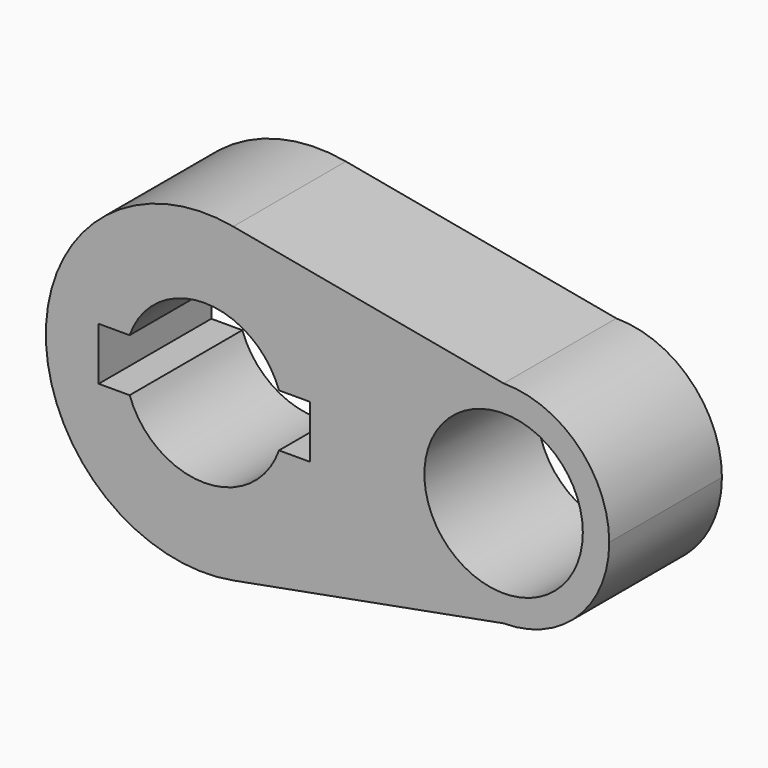
from build123d import *

# Parameters (mm, degrees)
F0_R     = 14.2875
F1_DEPTH = 25.4


with BuildPart() as f1:
    # F0 (on Front) → F1 (new body)
    with BuildSketch(Plane.XZ):
        with BuildLine():
            ThreePointArc((5.211817, -28.095686), (21.971098, -18.270235), (28.575, 0))
            ThreePointArc((28.575, 0), (21.971098, 18.270235), (5.211817, 28.095686))
            ThreePointArc((5.211817, 28.095686), (-28.575, 0), (5.211817, -28.095686))
        make_face()
        with BuildLine():
            ThreePointArc((-13.470384, 4.7625), (0, 14.2875), (13.470384, 4.7625))
            Line((13.470384, 4.7625), (19.05, 4.7625))
            Line((19.05, 4.7625), (19.05, -4.7625))
            Line((19.05, -4.7625), (13.470384, -4.7625))
            ThreePointArc((13.470384, -4.7625), (0, -14.2875), (-13.470384, -4.7625))
            Line((-13.470384, -4.7625), (-19.05, -4.7625))
            Line((-19.05, -4.7625), (-19.05, 4.7625))
            Line((-19.05, 4.7625), (-13.470384, 4.7625))
        make_face(mode=Mode.SUBTRACT)
        with BuildLine():
            ThreePointArc((5.211817, 28.095686), (21.971098, 18.270235), (28.575, 0))
            ThreePointArc((28.575, 0), (21.971098, -18.270235), (5.211817, -28.095686))
            Line((5.211817, -28.095686), (53.975, -19.05))
            ThreePointArc((53.975, -19.05), (34.925, 0), (53.975, 19.05))
            Line((53.975, 19.05), (5.211817, 28.095686))
        make_face()
        with BuildLine():
            ThreePointArc((73.025, 0), (67.445384, 13.470384), (53.975, 19.05))
            ThreePointArc((53.975, 19.05), (34.925, 0), (53.975, -19.05))
            ThreePointArc((53.975, -19.05), (67.445384, -13.470384), (73.025, 0))
        make_face()
        with Locations((53.975, 0)):
            Circle(F0_R, mode=Mode.SUBTRACT)
    extrude(amount=F1_DEPTH)


solid = f1.part
